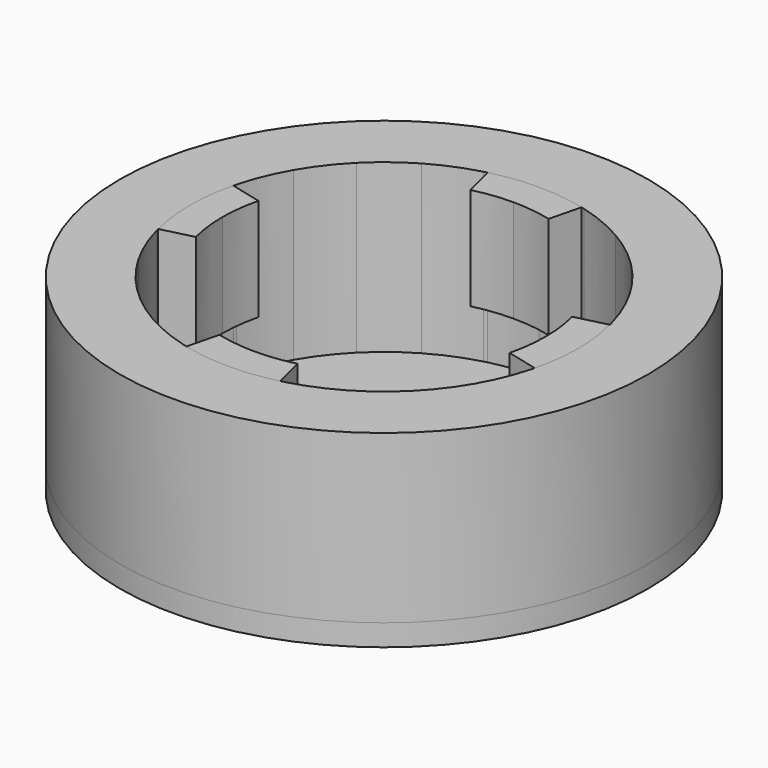
from build123d import *

# Parameters (mm, degrees)
F0_R     = 12.446
F1_DEPTH = 8.89
F3_DEPTH = 4.826
F4_R     = 12.446
F5_DEPTH = 1.016
F6_W     = 2.54
F6_H     = 10.16
F7_DEPTH = 2.54


with BuildPart() as f1:
    # F0 (on Top) → F1 (new body)
    with BuildSketch(Plane.XY):
        Circle(F0_R)
        with BuildLine():
            ThreePointArc((8.872384, 2.212134), (9.075842, 1.114373), (9.144, 0))
            ThreePointArc((9.144, 0), (9.075842, -1.114373), (8.872384, -2.212134))
            ThreePointArc((8.872384, -2.212134), (8.852742, -2.289475), (8.832426, -2.366641))
            ThreePointArc((8.832426, -2.366641), (8.447954, -3.499257), (7.918936, -4.572))
            ThreePointArc((7.918936, -4.572), (7.254423, -5.566515), (6.465784, -6.465784))
            ThreePointArc((6.465784, -6.465784), (5.566515, -7.254423), (4.572, -7.918936))
            ThreePointArc((4.572, -7.918936), (3.499257, -8.447954), (2.366641, -8.832426))
            ThreePointArc((2.366641, -8.832426), (2.289475, -8.852742), (2.212134, -8.872384))
            ThreePointArc((2.212134, -8.872384), (1.114373, -9.075842), (0, -9.144))
            ThreePointArc((0, -9.144), (-1.114373, -9.075842), (-2.212134, -8.872384))
            ThreePointArc((-2.212134, -8.872384), (-2.289475, -8.852742), (-2.366641, -8.832426))
            ThreePointArc((-2.366641, -8.832426), (-3.499257, -8.447954), (-4.572, -7.918936))
            ThreePointArc((-4.572, -7.918936), (-5.566515, -7.254423), (-6.465784, -6.465784))
            ThreePointArc((-6.465784, -6.465784), (-7.254423, -5.566515), (-7.918936, -4.572))
            ThreePointArc((-7.918936, -4.572), (-8.447954, -3.499257), (-8.832426, -2.366641))
            ThreePointArc((-8.832426, -2.366641), (-8.852742, -2.289475), (-8.872384, -2.212134))
            ThreePointArc((-8.872384, -2.212134), (-9.075842, -1.114373), (-9.144, 0))
            ThreePointArc((-9.144, 0), (-9.075842, 1.114373), (-8.872384, 2.212134))
            ThreePointArc((-8.872384, 2.212134), (-8.852742, 2.289475), (-8.832426, 2.366641))
            ThreePointArc((-8.832426, 2.366641), (-8.447954, 3.499257), (-7.918936, 4.572))
            ThreePointArc((-7.918936, 4.572), (-7.254423, 5.566515), (-6.465784, 6.465784))
            ThreePointArc((-6.465784, 6.465784), (-5.566515, 7.254423), (-4.572, 7.918936))
            ThreePointArc((-4.572, 7.918936), (-3.499257, 8.447954), (-2.366641, 8.832426))
            ThreePointArc((-2.366641, 8.832426), (-2.289475, 8.852742), (-2.212134, 8.872384))
            ThreePointArc((-2.212134, 8.872384), (-1.114373, 9.075842), (0, 9.144))
            ThreePointArc((0, 9.144), (1.114373, 9.075842), (2.212134, 8.872384))
            ThreePointArc((2.212134, 8.872384), (2.289475, 8.852742), (2.366641, 8.832426))
            ThreePointArc((2.366641, 8.832426), (3.499257, 8.447954), (4.572, 7.918936))
            ThreePointArc((4.572, 7.918936), (5.566515, 7.254423), (6.465784, 6.465784))
            ThreePointArc((6.465784, 6.465784), (7.254423, 5.566515), (7.918936, 4.572))
            ThreePointArc((7.918936, 4.572), (8.447954, 3.499257), (8.832426, 2.366641))
            ThreePointArc((8.832426, 2.366641), (8.852742, 2.289475), (8.872384, 2.212134))
        make_face(mode=Mode.SUBTRACT)
    extrude(amount=F1_DEPTH)


with BuildPart() as f3:
    # F2 (on face) → F3 (new body)
    with BuildSketch(Plane.XY.offset(8.89)):
        with BuildLine():
            ThreePointArc((-8.872384, 2.212134), (-9.075842, 1.114373), (-9.144, 0))
            Line((-9.144, 0), (-7.62, 0))
            ThreePointArc((-7.62, 0), (-7.563202, 0.928644), (-7.393653, 1.843445))
            Line((-7.393653, 1.843445), (-8.872384, 2.212134))
        make_face()
        with BuildLine():
            Line((-7.62, 0), (-9.144, 0))
            ThreePointArc((-9.144, 0), (-9.075842, -1.114373), (-8.872384, -2.212134))
            Line((-8.872384, -2.212134), (-7.393653, -1.843445))
            ThreePointArc((-7.393653, -1.843445), (-7.563202, -0.928644), (-7.62, 0))
        make_face()
        with BuildLine():
            ThreePointArc((-2.212134, -8.872384), (-1.114373, -9.075842), (0, -9.144))
            Line((0, -9.144), (0, -7.62))
            ThreePointArc((0, -7.62), (-0.928644, -7.563202), (-1.843445, -7.393653))
            Line((-1.843445, -7.393653), (-2.212134, -8.872384))
        make_face()
        with BuildLine():
            Line((0, -7.62), (0, -9.144))
            ThreePointArc((0, -9.144), (1.114373, -9.075842), (2.212134, -8.872384))
            Line((2.212134, -8.872384), (1.843445, -7.393653))
            ThreePointArc((1.843445, -7.393653), (0.928644, -7.563202), (0, -7.62))
        make_face()
        with BuildLine():
            ThreePointArc((8.872384, -2.212134), (9.075842, -1.114373), (9.144, 0))
            Line((9.144, 0), (7.62, 0))
            ThreePointArc((7.62, 0), (7.563202, -0.928644), (7.393653, -1.843445))
            Line((7.393653, -1.843445), (8.872384, -2.212134))
        make_face()
        with BuildLine():
            Line((7.62, 0), (9.144, 0))
            ThreePointArc((9.144, 0), (9.075842, 1.114373), (8.872384, 2.212134))
            Line((8.872384, 2.212134), (7.393653, 1.843445))
            ThreePointArc((7.393653, 1.843445), (7.563202, 0.928644), (7.62, 0))
        make_face()
        with BuildLine():
            ThreePointArc((2.212134, 8.872384), (1.114373, 9.075842), (0, 9.144))
            Line((0, 9.144), (0, 7.62))
            ThreePointArc((0, 7.62), (0.928644, 7.563202), (1.843445, 7.393653))
            Line((1.843445, 7.393653), (2.212134, 8.872384))
        make_face()
        with BuildLine():
            Line((0, 7.62), (0, 9.144))
            ThreePointArc((0, 9.144), (-1.114373, 9.075842), (-2.212134, 8.872384))
            Line((-2.212134, 8.872384), (-1.843445, 7.393653))
            ThreePointArc((-1.843445, 7.393653), (-0.928644, 7.563202), (0, 7.62))
        make_face()
    extrude(amount=-F3_DEPTH)


with BuildPart() as f5:
    # F4 (on face) → F5 (new body)
    with BuildSketch(Plane.XY):
        Circle(F4_R)
    extrude(amount=F5_DEPTH)

    # F6 (on face) → F7 (cut)
    with BuildSketch(Plane.XY):
        Rectangle(F6_W, F6_H)
    extrude(amount=F7_DEPTH, mode=Mode.SUBTRACT)


solid = Compound([f1.part, f3.part, f5.part])
